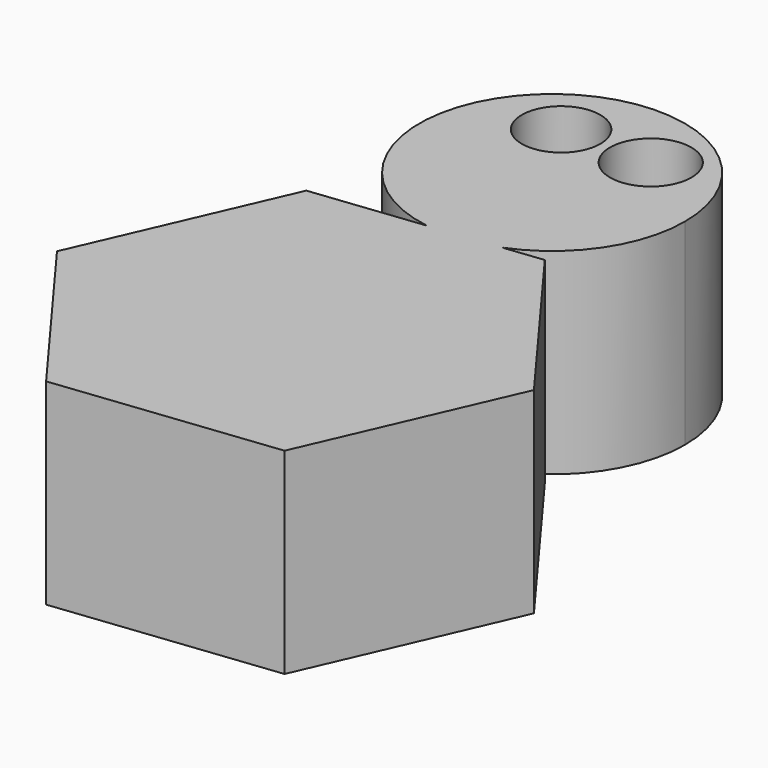
from build123d import *

# Parameters (mm, degrees)
F0_R     = 5.0729517485
F0_R_2   = 5.2620851013
F1_DEPTH = 25.4


with BuildPart() as f1:
    # F0 (on Top) → F1 (new body)
    with BuildSketch(Plane.XY):
        with BuildLine():
            ThreePointArc((6.3195106697, 8.2748654283), (14.1949379045, 14.5853247175), (17.1620698292, 24.23106879))
            ThreePointArc((17.1620698292, 24.23106879), (-11.1785461031, 37.2532325059), (-2.5997362388, 7.2670476773))
            Line((-2.5997362388, 7.2670476773), (6.3195106697, 8.2748654283))
        make_face()
        with Locations((-5.181599874, 32.1565270424)):
            Circle(F0_R, mode=Mode.SUBTRACT)
        with Locations((6.4008007757, 32.1565270424)):
            Circle(F0_R_2, mode=Mode.SUBTRACT)
        with BuildLine():
            Line((6.3195106697, 8.2748654283), (-2.5997362388, 7.2670476773))
            ThreePointArc((-2.5997362388, 7.2670476773), (1.9269417763, 7.1775197102), (6.3195106697, 8.2748654283))
        make_face()
        with BuildLine():
            ThreePointArc((6.3195106697, 8.2748654283), (1.9269417763, 7.1775197102), (-2.5997362388, 7.2670476773))
            Line((-2.5997362388, 7.2670476773), (-16.8951326659, 5.651759478))
            Line((-16.8951326659, 5.651759478), (-28.2595672484, -20.4183186727))
            Line((-28.2595672484, -20.4183186727), (-11.3644345824, -43.2952467961))
            Line((-11.3644345824, -43.2952467961), (16.8951326659, -40.1020967688))
            Line((16.8951326659, -40.1020967688), (28.2595672484, -14.0320186181))
            Line((28.2595672484, -14.0320186181), (11.3644345824, 8.8449095053))
            Line((11.3644345824, 8.8449095053), (6.3195106697, 8.2748654283))
        make_face()
    extrude(amount=F1_DEPTH)


solid = f1.part
